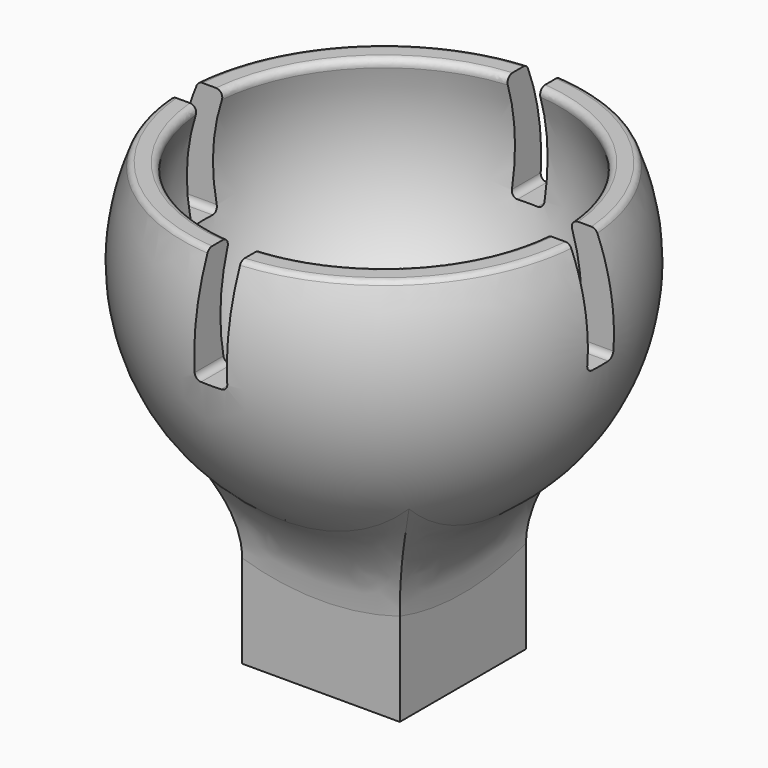
from build123d import *

# Parameters (mm, degrees)
BOX_W           = 30
BOX_H           = 30
BOX_DEPTH       = 30
SKETCH_W        = 7.25
SKETCH_H        = 7.25
PAD_DEPTH       = 16
SKETCH006_R     = 1.5
POCKET_DEPTH    = 20.001
SKETCH005_W     = 30.611846
SKETCH005_H     = 1.5
POCKET001_DEPTH = 5
SKETCH004_W     = 1.5
SKETCH004_H     = 27.596146
POCKET002_DEPTH = 5
FILLET_R        = 0.29
FILLET001_R     = 5


with BuildPart() as cube:
    # Box → Box (new body)
    with BuildSketch(Plane(origin=(-15, -15, 20), x_dir=(1, 0, 0), z_dir=(0, 0, 1))):
        with Locations((15, 15)):
            Rectangle(BOX_W, BOX_H)
    extrude(amount=BOX_DEPTH)


with BuildPart() as sphere:
    # Sphere → Sphere (revolve)
    with BuildSketch(Plane(origin=(0, 0, 17), x_dir=(1, 0, 0), z_dir=(0, -1, 0))):
        with BuildLine():
            ThreePointArc((0, -8.5), (8.5, 0), (0, 8.5))
            Line((0, 8.5), (0, -8.5))
        make_face()
    revolve(axis=Axis((0, 0, 17), (0, 0, 1)))


with BuildPart() as fillet001:
    # Sketch → Pad (new body)
    with BuildSketch(Plane.XY):
        Rectangle(SKETCH_W, SKETCH_H)
    extrude(amount=PAD_DEPTH)

    # Sketch003 → Revolution (revolve)
    with BuildSketch(Plane.XY.offset(16)):
        with BuildLine():
            ThreePointArc((10, 0), (0, 10), (-10, 0))
            Line((-10, 0), (10, 0))
        make_face()
    revolve(axis=Axis((0, 0, 16), (1, 0, 0)))

    # Cut: cut Sphere
    add(sphere.part, mode=Mode.SUBTRACT)

    # Cut001: cut Cube
    add(cube.part, mode=Mode.SUBTRACT)

    # Sketch006 → Pocket (cut, through all)
    with BuildSketch(Plane.XY.offset(20)):
        Circle(SKETCH006_R)
    extrude(amount=-POCKET_DEPTH, mode=Mode.SUBTRACT)

    # Sketch005 → Pocket001 (cut)
    with BuildSketch(Plane.XY.offset(20)):
        Rectangle(SKETCH005_W, SKETCH005_H)
    extrude(amount=-POCKET001_DEPTH, mode=Mode.SUBTRACT)

    # Sketch004 → Pocket002 (cut)
    with BuildSketch(Plane.XY.offset(20)):
        Rectangle(SKETCH004_W, SKETCH004_H)
    extrude(amount=-POCKET002_DEPTH, mode=Mode.SUBTRACT)

    # Fillet
    fillet_edges = [fillet001.edges().sort_by_distance(p)[0] for p in [
        (-5.623611, 5.623611, 20),
        (5.623611, 5.623611, 20),
        (5.623611, -5.623611, 20),
        (-5.623611, -5.623611, 20),
        (-6.480741, 6.480741, 20),
        (-6.480741, -6.480741, 20),
        (6.480741, -6.480741, 20),
        (6.480741, 6.480741, 20),
        (0.75, 9.074404, 15),
        (-0.75, 9.074404, 15),
        (-9.074404, -0.75, 15),
        (9.074404, -0.75, 15),
        (-9.074404, 0.75, 15),
        (0.75, -9.074404, 15),
        (9.074404, 0.75, 15),
        (-0.75, -9.074404, 15),
    ]]
    fillet(fillet_edges, radius=FILLET_R)

    # Fillet001
    fillet001_edges = [fillet001.edges().sort_by_distance(p)[0] for p in [
        (-3.625, 0, 6.680162),
        (0, 3.625, 6.680162),
        (3.625, 0, 6.680162),
        (0, -3.625, 6.680162),
    ]]
    fillet(fillet001_edges, radius=FILLET001_R)


solid = fillet001.part
